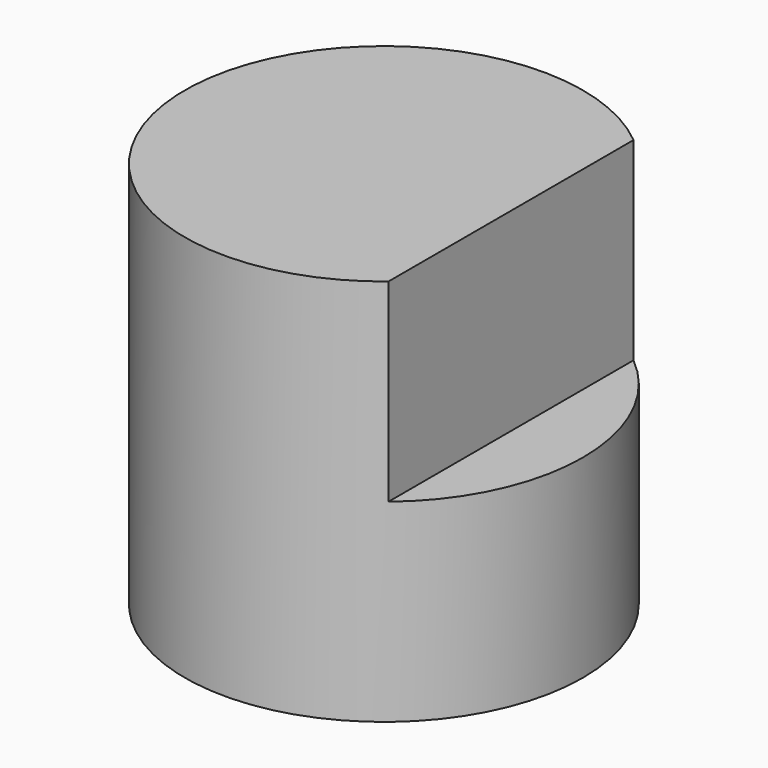
from build123d import *

# Parameters (mm, degrees)
F0_R     = 52.1581196837
F1_DEPTH = 101.6
F3_DEPTH = 50.8


with BuildPart() as f1:
    # F0 (on Top) → F1 (new body)
    with BuildSketch(Plane.XY):
        Circle(F0_R)
    extrude(amount=F1_DEPTH)

    # F2 (on face) → F3 (cut)
    with BuildSketch(Plane.XY.offset(101.6)):
        with BuildLine():
            Line((101.8066704273, 61.7363043129), (33.3143025637, 61.7363043129))
            Line((33.3143025637, 61.7363043129), (33.3143025637, 40.1326138401))
            ThreePointArc((33.3143025637, 40.1326138401), (47.212714544, 22.1681987162), (52.1581196837, 0))
            ThreePointArc((52.1581196837, 0), (47.212714544, -22.1681987162), (33.3143025637, -40.1326138401))
            Line((33.3143025637, -40.1326138401), (33.3143025637, -59.4066306949))
            Line((33.3143025637, -59.4066306949), (101.8066704273, -59.4066306949))
            Line((101.8066704273, -59.4066306949), (101.8066704273, 61.7363043129))
        make_face()
        with BuildLine():
            ThreePointArc((52.1581196837, 0), (47.212714544, 22.1681987162), (33.3143025637, 40.1326138401))
            Line((33.3143025637, 40.1326138401), (33.3143025637, -40.1326138401))
            ThreePointArc((33.3143025637, -40.1326138401), (47.212714544, -22.1681987162), (52.1581196837, 0))
        make_face()
    extrude(amount=-F3_DEPTH, mode=Mode.SUBTRACT)


solid = f1.part
